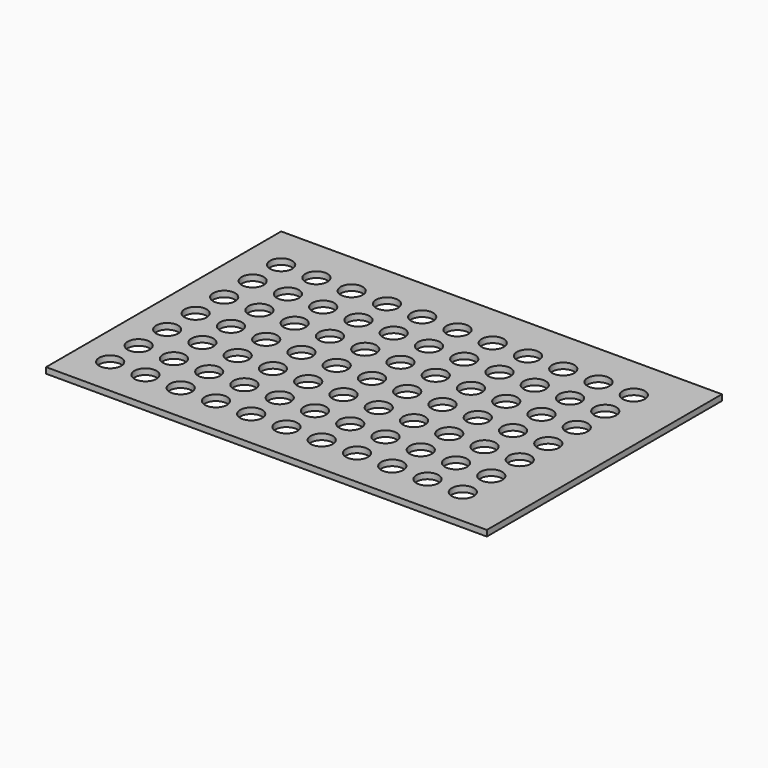
from build123d import *

# Parameters (mm, degrees)
F0_W     = 15
F0_H     = 10
F1_DEPTH = 0.2


with BuildPart() as f1:
    # F0 (on Top) → F1 (new body)
    with BuildSketch(Plane.XY):
        with Locations((7.5, -5)):
            Rectangle(F0_W, F0_H)
        with BuildLine():
            add(Edge.make_bspline(
                [(1.487611, -8.557549), (1.241304, -7.956544), (0.843971, -8.470355), (0.446639, -8.984167), (1.090279, -9.071361), (1.733919, -9.158555), (1.487611, -8.557549)],
                knots=[0, 0, 0, 2.094395, 2.094395, 4.18879, 4.18879, 6.283185, 6.283185, 6.283185], degree=2, weights=[1, 0.5, 1, 0.5, 1, 0.5, 1]))
        make_face(mode=Mode.SUBTRACT)
        with BuildLine():
            add(Edge.make_bspline(
                [(2.687611, -8.557549), (2.441304, -7.956544), (2.043971, -8.470355), (1.646639, -8.984167), (2.290279, -9.071361), (2.933919, -9.158555), (2.687611, -8.557549)],
                knots=[0, 0, 0, 2.094395, 2.094395, 4.18879, 4.18879, 6.283185, 6.283185, 6.283185], degree=2, weights=[1, 0.5, 1, 0.5, 1, 0.5, 1]))
        make_face(mode=Mode.SUBTRACT)
        with BuildLine():
            add(Edge.make_bspline(
                [(3.887611, -8.557549), (3.641304, -7.956544), (3.243971, -8.470355), (2.846639, -8.984167), (3.490279, -9.071361), (4.133919, -9.158555), (3.887611, -8.557549)],
                knots=[0, 0, 0, 2.094395, 2.094395, 4.18879, 4.18879, 6.283185, 6.283185, 6.283185], degree=2, weights=[1, 0.5, 1, 0.5, 1, 0.5, 1]))
        make_face(mode=Mode.SUBTRACT)
        with BuildLine():
            add(Edge.make_bspline(
                [(5.087611, -8.557549), (4.841304, -7.956544), (4.443971, -8.470355), (4.046639, -8.984167), (4.690279, -9.071361), (5.333919, -9.158555), (5.087611, -8.557549)],
                knots=[0, 0, 0, 2.094395, 2.094395, 4.18879, 4.18879, 6.283185, 6.283185, 6.283185], degree=2, weights=[1, 0.5, 1, 0.5, 1, 0.5, 1]))
        make_face(mode=Mode.SUBTRACT)
        with BuildLine():
            add(Edge.make_bspline(
                [(6.287611, -8.557549), (6.041304, -7.956544), (5.643971, -8.470355), (5.246639, -8.984167), (5.890279, -9.071361), (6.533919, -9.158555), (6.287611, -8.557549)],
                knots=[0, 0, 0, 2.094395, 2.094395, 4.18879, 4.18879, 6.283185, 6.283185, 6.283185], degree=2, weights=[1, 0.5, 1, 0.5, 1, 0.5, 1]))
        make_face(mode=Mode.SUBTRACT)
        with BuildLine():
            add(Edge.make_bspline(
                [(7.487611, -8.557549), (7.241304, -7.956544), (6.843971, -8.470355), (6.446639, -8.984167), (7.090279, -9.071361), (7.733919, -9.158555), (7.487611, -8.557549)],
                knots=[0, 0, 0, 2.094395, 2.094395, 4.18879, 4.18879, 6.283185, 6.283185, 6.283185], degree=2, weights=[1, 0.5, 1, 0.5, 1, 0.5, 1]))
        make_face(mode=Mode.SUBTRACT)
        with BuildLine():
            add(Edge.make_bspline(
                [(1.497508, -7.35759), (1.2512, -6.756585), (0.853868, -7.270396), (0.456536, -7.784207), (1.100176, -7.871402), (1.743815, -7.958596), (1.497508, -7.35759)],
                knots=[0, 0, 0, 2.094395, 2.094395, 4.18879, 4.18879, 6.283185, 6.283185, 6.283185], degree=2, weights=[1, 0.5, 1, 0.5, 1, 0.5, 1]))
        make_face(mode=Mode.SUBTRACT)
        with BuildLine():
            add(Edge.make_bspline(
                [(1.507404, -6.157631), (1.261097, -5.556626), (0.863765, -6.070437), (0.466432, -6.584248), (1.110072, -6.671442), (1.753712, -6.758636), (1.507404, -6.157631)],
                knots=[0, 0, 0, 2.094395, 2.094395, 4.18879, 4.18879, 6.283185, 6.283185, 6.283185], degree=2, weights=[1, 0.5, 1, 0.5, 1, 0.5, 1]))
        make_face(mode=Mode.SUBTRACT)
        with BuildLine():
            add(Edge.make_bspline(
                [(2.697508, -7.35759), (2.4512, -6.756585), (2.053868, -7.270396), (1.656536, -7.784207), (2.300176, -7.871402), (2.943815, -7.958596), (2.697508, -7.35759)],
                knots=[0, 0, 0, 2.094395, 2.094395, 4.18879, 4.18879, 6.283185, 6.283185, 6.283185], degree=2, weights=[1, 0.5, 1, 0.5, 1, 0.5, 1]))
        make_face(mode=Mode.SUBTRACT)
        with BuildLine():
            add(Edge.make_bspline(
                [(3.897508, -7.35759), (3.6512, -6.756585), (3.253868, -7.270396), (2.856536, -7.784207), (3.500176, -7.871402), (4.143815, -7.958596), (3.897508, -7.35759)],
                knots=[0, 0, 0, 2.094395, 2.094395, 4.18879, 4.18879, 6.283185, 6.283185, 6.283185], degree=2, weights=[1, 0.5, 1, 0.5, 1, 0.5, 1]))
        make_face(mode=Mode.SUBTRACT)
        with BuildLine():
            add(Edge.make_bspline(
                [(2.707404, -6.157631), (2.461097, -5.556626), (2.063765, -6.070437), (1.666432, -6.584248), (2.310072, -6.671442), (2.953712, -6.758636), (2.707404, -6.157631)],
                knots=[0, 0, 0, 2.094395, 2.094395, 4.18879, 4.18879, 6.283185, 6.283185, 6.283185], degree=2, weights=[1, 0.5, 1, 0.5, 1, 0.5, 1]))
        make_face(mode=Mode.SUBTRACT)
        with BuildLine():
            add(Edge.make_bspline(
                [(3.907404, -6.157631), (3.661097, -5.556626), (3.263765, -6.070437), (2.866432, -6.584248), (3.510072, -6.671442), (4.153712, -6.758636), (3.907404, -6.157631)],
                knots=[0, 0, 0, 2.094395, 2.094395, 4.18879, 4.18879, 6.283185, 6.283185, 6.283185], degree=2, weights=[1, 0.5, 1, 0.5, 1, 0.5, 1]))
        make_face(mode=Mode.SUBTRACT)
        with BuildLine():
            add(Edge.make_bspline(
                [(1.517301, -4.957672), (1.270993, -4.356666), (0.873661, -4.870478), (0.476329, -5.384289), (1.119969, -5.471483), (1.763609, -5.558677), (1.517301, -4.957672)],
                knots=[0, 0, 0, 2.094395, 2.094395, 4.18879, 4.18879, 6.283185, 6.283185, 6.283185], degree=2, weights=[1, 0.5, 1, 0.5, 1, 0.5, 1]))
        make_face(mode=Mode.SUBTRACT)
        with BuildLine():
            add(Edge.make_bspline(
                [(2.717301, -4.957672), (2.470993, -4.356666), (2.073661, -4.870478), (1.676329, -5.384289), (2.319969, -5.471483), (2.963609, -5.558677), (2.717301, -4.957672)],
                knots=[0, 0, 0, 2.094395, 2.094395, 4.18879, 4.18879, 6.283185, 6.283185, 6.283185], degree=2, weights=[1, 0.5, 1, 0.5, 1, 0.5, 1]))
        make_face(mode=Mode.SUBTRACT)
        with BuildLine():
            add(Edge.make_bspline(
                [(3.917301, -4.957672), (3.670993, -4.356666), (3.273661, -4.870478), (2.876329, -5.384289), (3.519969, -5.471483), (4.163609, -5.558677), (3.917301, -4.957672)],
                knots=[0, 0, 0, 2.094395, 2.094395, 4.18879, 4.18879, 6.283185, 6.283185, 6.283185], degree=2, weights=[1, 0.5, 1, 0.5, 1, 0.5, 1]))
        make_face(mode=Mode.SUBTRACT)
        with BuildLine():
            add(Edge.make_bspline(
                [(5.097508, -7.35759), (4.8512, -6.756585), (4.453868, -7.270396), (4.056536, -7.784207), (4.700176, -7.871402), (5.343815, -7.958596), (5.097508, -7.35759)],
                knots=[0, 0, 0, 2.094395, 2.094395, 4.18879, 4.18879, 6.283185, 6.283185, 6.283185], degree=2, weights=[1, 0.5, 1, 0.5, 1, 0.5, 1]))
        make_face(mode=Mode.SUBTRACT)
        with BuildLine():
            add(Edge.make_bspline(
                [(5.107404, -6.157631), (4.861097, -5.556626), (4.463765, -6.070437), (4.066432, -6.584248), (4.710072, -6.671442), (5.353712, -6.758636), (5.107404, -6.157631)],
                knots=[0, 0, 0, 2.094395, 2.094395, 4.18879, 4.18879, 6.283185, 6.283185, 6.283185], degree=2, weights=[1, 0.5, 1, 0.5, 1, 0.5, 1]))
        make_face(mode=Mode.SUBTRACT)
        with BuildLine():
            add(Edge.make_bspline(
                [(6.297508, -7.35759), (6.0512, -6.756585), (5.653868, -7.270396), (5.256536, -7.784207), (5.900176, -7.871402), (6.543815, -7.958596), (6.297508, -7.35759)],
                knots=[0, 0, 0, 2.094395, 2.094395, 4.18879, 4.18879, 6.283185, 6.283185, 6.283185], degree=2, weights=[1, 0.5, 1, 0.5, 1, 0.5, 1]))
        make_face(mode=Mode.SUBTRACT)
        with BuildLine():
            add(Edge.make_bspline(
                [(7.497508, -7.35759), (7.2512, -6.756585), (6.853868, -7.270396), (6.456536, -7.784207), (7.100176, -7.871402), (7.743815, -7.958596), (7.497508, -7.35759)],
                knots=[0, 0, 0, 2.094395, 2.094395, 4.18879, 4.18879, 6.283185, 6.283185, 6.283185], degree=2, weights=[1, 0.5, 1, 0.5, 1, 0.5, 1]))
        make_face(mode=Mode.SUBTRACT)
        with BuildLine():
            add(Edge.make_bspline(
                [(6.307404, -6.157631), (6.061097, -5.556626), (5.663765, -6.070437), (5.266432, -6.584248), (5.910072, -6.671442), (6.553712, -6.758636), (6.307404, -6.157631)],
                knots=[0, 0, 0, 2.094395, 2.094395, 4.18879, 4.18879, 6.283185, 6.283185, 6.283185], degree=2, weights=[1, 0.5, 1, 0.5, 1, 0.5, 1]))
        make_face(mode=Mode.SUBTRACT)
        with BuildLine():
            add(Edge.make_bspline(
                [(7.507404, -6.157631), (7.261097, -5.556626), (6.863765, -6.070437), (6.466432, -6.584248), (7.110072, -6.671442), (7.753712, -6.758636), (7.507404, -6.157631)],
                knots=[0, 0, 0, 2.094395, 2.094395, 4.18879, 4.18879, 6.283185, 6.283185, 6.283185], degree=2, weights=[1, 0.5, 1, 0.5, 1, 0.5, 1]))
        make_face(mode=Mode.SUBTRACT)
        with BuildLine():
            add(Edge.make_bspline(
                [(5.117301, -4.957672), (4.870993, -4.356666), (4.473661, -4.870478), (4.076329, -5.384289), (4.719969, -5.471483), (5.363609, -5.558677), (5.117301, -4.957672)],
                knots=[0, 0, 0, 2.094395, 2.094395, 4.18879, 4.18879, 6.283185, 6.283185, 6.283185], degree=2, weights=[1, 0.5, 1, 0.5, 1, 0.5, 1]))
        make_face(mode=Mode.SUBTRACT)
        with BuildLine():
            add(Edge.make_bspline(
                [(6.317301, -4.957672), (6.070993, -4.356666), (5.673661, -4.870478), (5.276329, -5.384289), (5.919969, -5.471483), (6.563609, -5.558677), (6.317301, -4.957672)],
                knots=[0, 0, 0, 2.094395, 2.094395, 4.18879, 4.18879, 6.283185, 6.283185, 6.283185], degree=2, weights=[1, 0.5, 1, 0.5, 1, 0.5, 1]))
        make_face(mode=Mode.SUBTRACT)
        with BuildLine():
            add(Edge.make_bspline(
                [(7.517301, -4.957672), (7.270993, -4.356666), (6.873661, -4.870478), (6.476329, -5.384289), (7.119969, -5.471483), (7.763609, -5.558677), (7.517301, -4.957672)],
                knots=[0, 0, 0, 2.094395, 2.094395, 4.18879, 4.18879, 6.283185, 6.283185, 6.283185], degree=2, weights=[1, 0.5, 1, 0.5, 1, 0.5, 1]))
        make_face(mode=Mode.SUBTRACT)
        with BuildLine():
            add(Edge.make_bspline(
                [(8.687611, -8.557549), (8.441304, -7.956544), (8.043971, -8.470355), (7.646639, -8.984167), (8.290279, -9.071361), (8.933919, -9.158555), (8.687611, -8.557549)],
                knots=[0, 0, 0, 2.094395, 2.094395, 4.18879, 4.18879, 6.283185, 6.283185, 6.283185], degree=2, weights=[1, 0.5, 1, 0.5, 1, 0.5, 1]))
        make_face(mode=Mode.SUBTRACT)
        with BuildLine():
            add(Edge.make_bspline(
                [(9.887611, -8.557549), (9.641304, -7.956544), (9.243971, -8.470355), (8.846639, -8.984167), (9.490279, -9.071361), (10.133919, -9.158555), (9.887611, -8.557549)],
                knots=[0, 0, 0, 2.094395, 2.094395, 4.18879, 4.18879, 6.283185, 6.283185, 6.283185], degree=2, weights=[1, 0.5, 1, 0.5, 1, 0.5, 1]))
        make_face(mode=Mode.SUBTRACT)
        with BuildLine():
            add(Edge.make_bspline(
                [(11.087611, -8.557549), (10.841304, -7.956544), (10.443971, -8.470355), (10.046639, -8.984167), (10.690279, -9.071361), (11.333919, -9.158555), (11.087611, -8.557549)],
                knots=[0, 0, 0, 2.094395, 2.094395, 4.18879, 4.18879, 6.283185, 6.283185, 6.283185], degree=2, weights=[1, 0.5, 1, 0.5, 1, 0.5, 1]))
        make_face(mode=Mode.SUBTRACT)
        with BuildLine():
            add(Edge.make_bspline(
                [(12.287611, -8.557549), (12.041304, -7.956544), (11.643971, -8.470355), (11.246639, -8.984167), (11.890279, -9.071361), (12.533919, -9.158555), (12.287611, -8.557549)],
                knots=[0, 0, 0, 2.094395, 2.094395, 4.18879, 4.18879, 6.283185, 6.283185, 6.283185], degree=2, weights=[1, 0.5, 1, 0.5, 1, 0.5, 1]))
        make_face(mode=Mode.SUBTRACT)
        with BuildLine():
            add(Edge.make_bspline(
                [(13.487611, -8.557549), (13.241304, -7.956544), (12.843971, -8.470355), (12.446639, -8.984167), (13.090279, -9.071361), (13.733919, -9.158555), (13.487611, -8.557549)],
                knots=[0, 0, 0, 2.094395, 2.094395, 4.18879, 4.18879, 6.283185, 6.283185, 6.283185], degree=2, weights=[1, 0.5, 1, 0.5, 1, 0.5, 1]))
        make_face(mode=Mode.SUBTRACT)
        with BuildLine():
            add(Edge.make_bspline(
                [(8.697508, -7.35759), (8.4512, -6.756585), (8.053868, -7.270396), (7.656536, -7.784207), (8.300176, -7.871402), (8.943815, -7.958596), (8.697508, -7.35759)],
                knots=[0, 0, 0, 2.094395, 2.094395, 4.18879, 4.18879, 6.283185, 6.283185, 6.283185], degree=2, weights=[1, 0.5, 1, 0.5, 1, 0.5, 1]))
        make_face(mode=Mode.SUBTRACT)
        with BuildLine():
            add(Edge.make_bspline(
                [(8.707404, -6.157631), (8.461097, -5.556626), (8.063765, -6.070437), (7.666432, -6.584248), (8.310072, -6.671442), (8.953712, -6.758636), (8.707404, -6.157631)],
                knots=[0, 0, 0, 2.094395, 2.094395, 4.18879, 4.18879, 6.283185, 6.283185, 6.283185], degree=2, weights=[1, 0.5, 1, 0.5, 1, 0.5, 1]))
        make_face(mode=Mode.SUBTRACT)
        with BuildLine():
            add(Edge.make_bspline(
                [(9.897508, -7.35759), (9.6512, -6.756585), (9.253868, -7.270396), (8.856536, -7.784207), (9.500176, -7.871402), (10.143815, -7.958596), (9.897508, -7.35759)],
                knots=[0, 0, 0, 2.094395, 2.094395, 4.18879, 4.18879, 6.283185, 6.283185, 6.283185], degree=2, weights=[1, 0.5, 1, 0.5, 1, 0.5, 1]))
        make_face(mode=Mode.SUBTRACT)
        with BuildLine():
            add(Edge.make_bspline(
                [(11.097508, -7.35759), (10.8512, -6.756585), (10.453868, -7.270396), (10.056536, -7.784207), (10.700176, -7.871402), (11.343815, -7.958596), (11.097508, -7.35759)],
                knots=[0, 0, 0, 2.094395, 2.094395, 4.18879, 4.18879, 6.283185, 6.283185, 6.283185], degree=2, weights=[1, 0.5, 1, 0.5, 1, 0.5, 1]))
        make_face(mode=Mode.SUBTRACT)
        with BuildLine():
            add(Edge.make_bspline(
                [(9.907404, -6.157631), (9.661097, -5.556626), (9.263765, -6.070437), (8.866432, -6.584248), (9.510072, -6.671442), (10.153712, -6.758636), (9.907404, -6.157631)],
                knots=[0, 0, 0, 2.094395, 2.094395, 4.18879, 4.18879, 6.283185, 6.283185, 6.283185], degree=2, weights=[1, 0.5, 1, 0.5, 1, 0.5, 1]))
        make_face(mode=Mode.SUBTRACT)
        with BuildLine():
            add(Edge.make_bspline(
                [(11.107404, -6.157631), (10.861097, -5.556626), (10.463765, -6.070437), (10.066432, -6.584248), (10.710072, -6.671442), (11.353712, -6.758636), (11.107404, -6.157631)],
                knots=[0, 0, 0, 2.094395, 2.094395, 4.18879, 4.18879, 6.283185, 6.283185, 6.283185], degree=2, weights=[1, 0.5, 1, 0.5, 1, 0.5, 1]))
        make_face(mode=Mode.SUBTRACT)
        with BuildLine():
            add(Edge.make_bspline(
                [(8.717301, -4.957672), (8.470993, -4.356666), (8.073661, -4.870478), (7.676329, -5.384289), (8.319969, -5.471483), (8.963609, -5.558677), (8.717301, -4.957672)],
                knots=[0, 0, 0, 2.094395, 2.094395, 4.18879, 4.18879, 6.283185, 6.283185, 6.283185], degree=2, weights=[1, 0.5, 1, 0.5, 1, 0.5, 1]))
        make_face(mode=Mode.SUBTRACT)
        with BuildLine():
            add(Edge.make_bspline(
                [(9.917301, -4.957672), (9.670993, -4.356666), (9.273661, -4.870478), (8.876329, -5.384289), (9.519969, -5.471483), (10.163609, -5.558677), (9.917301, -4.957672)],
                knots=[0, 0, 0, 2.094395, 2.094395, 4.18879, 4.18879, 6.283185, 6.283185, 6.283185], degree=2, weights=[1, 0.5, 1, 0.5, 1, 0.5, 1]))
        make_face(mode=Mode.SUBTRACT)
        with BuildLine():
            add(Edge.make_bspline(
                [(11.117301, -4.957672), (10.870993, -4.356666), (10.473661, -4.870478), (10.076329, -5.384289), (10.719969, -5.471483), (11.363609, -5.558677), (11.117301, -4.957672)],
                knots=[0, 0, 0, 2.094395, 2.094395, 4.18879, 4.18879, 6.283185, 6.283185, 6.283185], degree=2, weights=[1, 0.5, 1, 0.5, 1, 0.5, 1]))
        make_face(mode=Mode.SUBTRACT)
        with BuildLine():
            add(Edge.make_bspline(
                [(12.297508, -7.35759), (12.0512, -6.756585), (11.653868, -7.270396), (11.256536, -7.784207), (11.900176, -7.871402), (12.543815, -7.958596), (12.297508, -7.35759)],
                knots=[0, 0, 0, 2.094395, 2.094395, 4.18879, 4.18879, 6.283185, 6.283185, 6.283185], degree=2, weights=[1, 0.5, 1, 0.5, 1, 0.5, 1]))
        make_face(mode=Mode.SUBTRACT)
        with BuildLine():
            add(Edge.make_bspline(
                [(12.307404, -6.157631), (12.061097, -5.556626), (11.663765, -6.070437), (11.266432, -6.584248), (11.910072, -6.671442), (12.553712, -6.758636), (12.307404, -6.157631)],
                knots=[0, 0, 0, 2.094395, 2.094395, 4.18879, 4.18879, 6.283185, 6.283185, 6.283185], degree=2, weights=[1, 0.5, 1, 0.5, 1, 0.5, 1]))
        make_face(mode=Mode.SUBTRACT)
        with BuildLine():
            add(Edge.make_bspline(
                [(13.497508, -7.35759), (13.2512, -6.756585), (12.853868, -7.270396), (12.456536, -7.784207), (13.100176, -7.871402), (13.743815, -7.958596), (13.497508, -7.35759)],
                knots=[0, 0, 0, 2.094395, 2.094395, 4.18879, 4.18879, 6.283185, 6.283185, 6.283185], degree=2, weights=[1, 0.5, 1, 0.5, 1, 0.5, 1]))
        make_face(mode=Mode.SUBTRACT)
        with BuildLine():
            add(Edge.make_bspline(
                [(13.507404, -6.157631), (13.261097, -5.556626), (12.863765, -6.070437), (12.466432, -6.584248), (13.110072, -6.671442), (13.753712, -6.758636), (13.507404, -6.157631)],
                knots=[0, 0, 0, 2.094395, 2.094395, 4.18879, 4.18879, 6.283185, 6.283185, 6.283185], degree=2, weights=[1, 0.5, 1, 0.5, 1, 0.5, 1]))
        make_face(mode=Mode.SUBTRACT)
        with BuildLine():
            add(Edge.make_bspline(
                [(12.317301, -4.957672), (12.070993, -4.356666), (11.673661, -4.870478), (11.276329, -5.384289), (11.919969, -5.471483), (12.563609, -5.558677), (12.317301, -4.957672)],
                knots=[0, 0, 0, 2.094395, 2.094395, 4.18879, 4.18879, 6.283185, 6.283185, 6.283185], degree=2, weights=[1, 0.5, 1, 0.5, 1, 0.5, 1]))
        make_face(mode=Mode.SUBTRACT)
        with BuildLine():
            add(Edge.make_bspline(
                [(13.517301, -4.957672), (13.270993, -4.356666), (12.873661, -4.870478), (12.476329, -5.384289), (13.119969, -5.471483), (13.763609, -5.558677), (13.517301, -4.957672)],
                knots=[0, 0, 0, 2.094395, 2.094395, 4.18879, 4.18879, 6.283185, 6.283185, 6.283185], degree=2, weights=[1, 0.5, 1, 0.5, 1, 0.5, 1]))
        make_face(mode=Mode.SUBTRACT)
        with BuildLine():
            add(Edge.make_bspline(
                [(1.527198, -3.757713), (1.28089, -3.156707), (0.883558, -3.670519), (0.486226, -4.18433), (1.129865, -4.271524), (1.773505, -4.358718), (1.527198, -3.757713)],
                knots=[0, 0, 0, 2.094395, 2.094395, 4.18879, 4.18879, 6.283185, 6.283185, 6.283185], degree=2, weights=[1, 0.5, 1, 0.5, 1, 0.5, 1]))
        make_face(mode=Mode.SUBTRACT)
        with BuildLine():
            add(Edge.make_bspline(
                [(2.727198, -3.757713), (2.48089, -3.156707), (2.083558, -3.670519), (1.686226, -4.18433), (2.329865, -4.271524), (2.973505, -4.358718), (2.727198, -3.757713)],
                knots=[0, 0, 0, 2.094395, 2.094395, 4.18879, 4.18879, 6.283185, 6.283185, 6.283185], degree=2, weights=[1, 0.5, 1, 0.5, 1, 0.5, 1]))
        make_face(mode=Mode.SUBTRACT)
        with BuildLine():
            add(Edge.make_bspline(
                [(3.927198, -3.757713), (3.68089, -3.156707), (3.283558, -3.670519), (2.886226, -4.18433), (3.529865, -4.271524), (4.173505, -4.358718), (3.927198, -3.757713)],
                knots=[0, 0, 0, 2.094395, 2.094395, 4.18879, 4.18879, 6.283185, 6.283185, 6.283185], degree=2, weights=[1, 0.5, 1, 0.5, 1, 0.5, 1]))
        make_face(mode=Mode.SUBTRACT)
        with BuildLine():
            add(Edge.make_bspline(
                [(1.537094, -2.557753), (1.290786, -1.956748), (0.893454, -2.470559), (0.496122, -2.984371), (1.139762, -3.071565), (1.783402, -3.158759), (1.537094, -2.557753)],
                knots=[0, 0, 0, 2.094395, 2.094395, 4.18879, 4.18879, 6.283185, 6.283185, 6.283185], degree=2, weights=[1, 0.5, 1, 0.5, 1, 0.5, 1]))
        make_face(mode=Mode.SUBTRACT)
        with BuildLine():
            add(Edge.make_bspline(
                [(2.737094, -2.557753), (2.490786, -1.956748), (2.093454, -2.470559), (1.696122, -2.984371), (2.339762, -3.071565), (2.983402, -3.158759), (2.737094, -2.557753)],
                knots=[0, 0, 0, 2.094395, 2.094395, 4.18879, 4.18879, 6.283185, 6.283185, 6.283185], degree=2, weights=[1, 0.5, 1, 0.5, 1, 0.5, 1]))
        make_face(mode=Mode.SUBTRACT)
        with BuildLine():
            add(Edge.make_bspline(
                [(3.937094, -2.557753), (3.690786, -1.956748), (3.293454, -2.470559), (2.896122, -2.984371), (3.539762, -3.071565), (4.183402, -3.158759), (3.937094, -2.557753)],
                knots=[0, 0, 0, 2.094395, 2.094395, 4.18879, 4.18879, 6.283185, 6.283185, 6.283185], degree=2, weights=[1, 0.5, 1, 0.5, 1, 0.5, 1]))
        make_face(mode=Mode.SUBTRACT)
        with BuildLine():
            add(Edge.make_bspline(
                [(5.127198, -3.757713), (4.88089, -3.156707), (4.483558, -3.670519), (4.086226, -4.18433), (4.729865, -4.271524), (5.373505, -4.358718), (5.127198, -3.757713)],
                knots=[0, 0, 0, 2.094395, 2.094395, 4.18879, 4.18879, 6.283185, 6.283185, 6.283185], degree=2, weights=[1, 0.5, 1, 0.5, 1, 0.5, 1]))
        make_face(mode=Mode.SUBTRACT)
        with BuildLine():
            add(Edge.make_bspline(
                [(6.327198, -3.757713), (6.08089, -3.156707), (5.683558, -3.670519), (5.286226, -4.18433), (5.929865, -4.271524), (6.573505, -4.358718), (6.327198, -3.757713)],
                knots=[0, 0, 0, 2.094395, 2.094395, 4.18879, 4.18879, 6.283185, 6.283185, 6.283185], degree=2, weights=[1, 0.5, 1, 0.5, 1, 0.5, 1]))
        make_face(mode=Mode.SUBTRACT)
        with BuildLine():
            add(Edge.make_bspline(
                [(7.527198, -3.757713), (7.28089, -3.156707), (6.883558, -3.670519), (6.486226, -4.18433), (7.129865, -4.271524), (7.773505, -4.358718), (7.527198, -3.757713)],
                knots=[0, 0, 0, 2.094395, 2.094395, 4.18879, 4.18879, 6.283185, 6.283185, 6.283185], degree=2, weights=[1, 0.5, 1, 0.5, 1, 0.5, 1]))
        make_face(mode=Mode.SUBTRACT)
        with BuildLine():
            add(Edge.make_bspline(
                [(5.137094, -2.557753), (4.890786, -1.956748), (4.493454, -2.470559), (4.096122, -2.984371), (4.739762, -3.071565), (5.383402, -3.158759), (5.137094, -2.557753)],
                knots=[0, 0, 0, 2.094395, 2.094395, 4.18879, 4.18879, 6.283185, 6.283185, 6.283185], degree=2, weights=[1, 0.5, 1, 0.5, 1, 0.5, 1]))
        make_face(mode=Mode.SUBTRACT)
        with BuildLine():
            add(Edge.make_bspline(
                [(6.337094, -2.557753), (6.090786, -1.956748), (5.693454, -2.470559), (5.296122, -2.984371), (5.939762, -3.071565), (6.583402, -3.158759), (6.337094, -2.557753)],
                knots=[0, 0, 0, 2.094395, 2.094395, 4.18879, 4.18879, 6.283185, 6.283185, 6.283185], degree=2, weights=[1, 0.5, 1, 0.5, 1, 0.5, 1]))
        make_face(mode=Mode.SUBTRACT)
        with BuildLine():
            add(Edge.make_bspline(
                [(7.537094, -2.557753), (7.290786, -1.956748), (6.893454, -2.470559), (6.496122, -2.984371), (7.139762, -3.071565), (7.783402, -3.158759), (7.537094, -2.557753)],
                knots=[0, 0, 0, 2.094395, 2.094395, 4.18879, 4.18879, 6.283185, 6.283185, 6.283185], degree=2, weights=[1, 0.5, 1, 0.5, 1, 0.5, 1]))
        make_face(mode=Mode.SUBTRACT)
        with BuildLine():
            add(Edge.make_bspline(
                [(1.546991, -1.357794), (1.300683, -0.756789), (0.903351, -1.2706), (0.506019, -1.784412), (1.149658, -1.871606), (1.793298, -1.9588), (1.546991, -1.357794)],
                knots=[0, 0, 0, 2.094395, 2.094395, 4.18879, 4.18879, 6.283185, 6.283185, 6.283185], degree=2, weights=[1, 0.5, 1, 0.5, 1, 0.5, 1]))
        make_face(mode=Mode.SUBTRACT)
        with BuildLine():
            add(Edge.make_bspline(
                [(2.746991, -1.357794), (2.500683, -0.756789), (2.103351, -1.2706), (1.706019, -1.784412), (2.349658, -1.871606), (2.993298, -1.9588), (2.746991, -1.357794)],
                knots=[0, 0, 0, 2.094395, 2.094395, 4.18879, 4.18879, 6.283185, 6.283185, 6.283185], degree=2, weights=[1, 0.5, 1, 0.5, 1, 0.5, 1]))
        make_face(mode=Mode.SUBTRACT)
        with BuildLine():
            add(Edge.make_bspline(
                [(3.946991, -1.357794), (3.700683, -0.756789), (3.303351, -1.2706), (2.906019, -1.784412), (3.549658, -1.871606), (4.193298, -1.9588), (3.946991, -1.357794)],
                knots=[0, 0, 0, 2.094395, 2.094395, 4.18879, 4.18879, 6.283185, 6.283185, 6.283185], degree=2, weights=[1, 0.5, 1, 0.5, 1, 0.5, 1]))
        make_face(mode=Mode.SUBTRACT)
        with BuildLine():
            add(Edge.make_bspline(
                [(5.146991, -1.357794), (4.900683, -0.756789), (4.503351, -1.2706), (4.106019, -1.784412), (4.749658, -1.871606), (5.393298, -1.9588), (5.146991, -1.357794)],
                knots=[0, 0, 0, 2.094395, 2.094395, 4.18879, 4.18879, 6.283185, 6.283185, 6.283185], degree=2, weights=[1, 0.5, 1, 0.5, 1, 0.5, 1]))
        make_face(mode=Mode.SUBTRACT)
        with BuildLine():
            add(Edge.make_bspline(
                [(6.346991, -1.357794), (6.100683, -0.756789), (5.703351, -1.2706), (5.306019, -1.784412), (5.949658, -1.871606), (6.593298, -1.9588), (6.346991, -1.357794)],
                knots=[0, 0, 0, 2.094395, 2.094395, 4.18879, 4.18879, 6.283185, 6.283185, 6.283185], degree=2, weights=[1, 0.5, 1, 0.5, 1, 0.5, 1]))
        make_face(mode=Mode.SUBTRACT)
        with BuildLine():
            add(Edge.make_bspline(
                [(7.546991, -1.357794), (7.300683, -0.756789), (6.903351, -1.2706), (6.506019, -1.784412), (7.149658, -1.871606), (7.793298, -1.9588), (7.546991, -1.357794)],
                knots=[0, 0, 0, 2.094395, 2.094395, 4.18879, 4.18879, 6.283185, 6.283185, 6.283185], degree=2, weights=[1, 0.5, 1, 0.5, 1, 0.5, 1]))
        make_face(mode=Mode.SUBTRACT)
        with BuildLine():
            add(Edge.make_bspline(
                [(8.727198, -3.757713), (8.48089, -3.156707), (8.083558, -3.670519), (7.686226, -4.18433), (8.329865, -4.271524), (8.973505, -4.358718), (8.727198, -3.757713)],
                knots=[0, 0, 0, 2.094395, 2.094395, 4.18879, 4.18879, 6.283185, 6.283185, 6.283185], degree=2, weights=[1, 0.5, 1, 0.5, 1, 0.5, 1]))
        make_face(mode=Mode.SUBTRACT)
        with BuildLine():
            add(Edge.make_bspline(
                [(9.927198, -3.757713), (9.68089, -3.156707), (9.283558, -3.670519), (8.886226, -4.18433), (9.529865, -4.271524), (10.173505, -4.358718), (9.927198, -3.757713)],
                knots=[0, 0, 0, 2.094395, 2.094395, 4.18879, 4.18879, 6.283185, 6.283185, 6.283185], degree=2, weights=[1, 0.5, 1, 0.5, 1, 0.5, 1]))
        make_face(mode=Mode.SUBTRACT)
        with BuildLine():
            add(Edge.make_bspline(
                [(11.127198, -3.757713), (10.88089, -3.156707), (10.483558, -3.670519), (10.086226, -4.18433), (10.729865, -4.271524), (11.373505, -4.358718), (11.127198, -3.757713)],
                knots=[0, 0, 0, 2.094395, 2.094395, 4.18879, 4.18879, 6.283185, 6.283185, 6.283185], degree=2, weights=[1, 0.5, 1, 0.5, 1, 0.5, 1]))
        make_face(mode=Mode.SUBTRACT)
        with BuildLine():
            add(Edge.make_bspline(
                [(8.737094, -2.557753), (8.490786, -1.956748), (8.093454, -2.470559), (7.696122, -2.984371), (8.339762, -3.071565), (8.983402, -3.158759), (8.737094, -2.557753)],
                knots=[0, 0, 0, 2.094395, 2.094395, 4.18879, 4.18879, 6.283185, 6.283185, 6.283185], degree=2, weights=[1, 0.5, 1, 0.5, 1, 0.5, 1]))
        make_face(mode=Mode.SUBTRACT)
        with BuildLine():
            add(Edge.make_bspline(
                [(9.937094, -2.557753), (9.690786, -1.956748), (9.293454, -2.470559), (8.896122, -2.984371), (9.539762, -3.071565), (10.183402, -3.158759), (9.937094, -2.557753)],
                knots=[0, 0, 0, 2.094395, 2.094395, 4.18879, 4.18879, 6.283185, 6.283185, 6.283185], degree=2, weights=[1, 0.5, 1, 0.5, 1, 0.5, 1]))
        make_face(mode=Mode.SUBTRACT)
        with BuildLine():
            add(Edge.make_bspline(
                [(11.137094, -2.557753), (10.890786, -1.956748), (10.493454, -2.470559), (10.096122, -2.984371), (10.739762, -3.071565), (11.383402, -3.158759), (11.137094, -2.557753)],
                knots=[0, 0, 0, 2.094395, 2.094395, 4.18879, 4.18879, 6.283185, 6.283185, 6.283185], degree=2, weights=[1, 0.5, 1, 0.5, 1, 0.5, 1]))
        make_face(mode=Mode.SUBTRACT)
        with BuildLine():
            add(Edge.make_bspline(
                [(12.327198, -3.757713), (12.08089, -3.156707), (11.683558, -3.670519), (11.286226, -4.18433), (11.929865, -4.271524), (12.573505, -4.358718), (12.327198, -3.757713)],
                knots=[0, 0, 0, 2.094395, 2.094395, 4.18879, 4.18879, 6.283185, 6.283185, 6.283185], degree=2, weights=[1, 0.5, 1, 0.5, 1, 0.5, 1]))
        make_face(mode=Mode.SUBTRACT)
        with BuildLine():
            add(Edge.make_bspline(
                [(13.527198, -3.757713), (13.28089, -3.156707), (12.883558, -3.670519), (12.486226, -4.18433), (13.129865, -4.271524), (13.773505, -4.358718), (13.527198, -3.757713)],
                knots=[0, 0, 0, 2.094395, 2.094395, 4.18879, 4.18879, 6.283185, 6.283185, 6.283185], degree=2, weights=[1, 0.5, 1, 0.5, 1, 0.5, 1]))
        make_face(mode=Mode.SUBTRACT)
        with BuildLine():
            add(Edge.make_bspline(
                [(12.337094, -2.557753), (12.090786, -1.956748), (11.693454, -2.470559), (11.296122, -2.984371), (11.939762, -3.071565), (12.583402, -3.158759), (12.337094, -2.557753)],
                knots=[0, 0, 0, 2.094395, 2.094395, 4.18879, 4.18879, 6.283185, 6.283185, 6.283185], degree=2, weights=[1, 0.5, 1, 0.5, 1, 0.5, 1]))
        make_face(mode=Mode.SUBTRACT)
        with BuildLine():
            add(Edge.make_bspline(
                [(13.537094, -2.557753), (13.290786, -1.956748), (12.893454, -2.470559), (12.496122, -2.984371), (13.139762, -3.071565), (13.783402, -3.158759), (13.537094, -2.557753)],
                knots=[0, 0, 0, 2.094395, 2.094395, 4.18879, 4.18879, 6.283185, 6.283185, 6.283185], degree=2, weights=[1, 0.5, 1, 0.5, 1, 0.5, 1]))
        make_face(mode=Mode.SUBTRACT)
        with BuildLine():
            add(Edge.make_bspline(
                [(8.746991, -1.357794), (8.500683, -0.756789), (8.103351, -1.2706), (7.706019, -1.784412), (8.349658, -1.871606), (8.993298, -1.9588), (8.746991, -1.357794)],
                knots=[0, 0, 0, 2.094395, 2.094395, 4.18879, 4.18879, 6.283185, 6.283185, 6.283185], degree=2, weights=[1, 0.5, 1, 0.5, 1, 0.5, 1]))
        make_face(mode=Mode.SUBTRACT)
        with BuildLine():
            add(Edge.make_bspline(
                [(9.946991, -1.357794), (9.700683, -0.756789), (9.303351, -1.2706), (8.906019, -1.784412), (9.549658, -1.871606), (10.193298, -1.9588), (9.946991, -1.357794)],
                knots=[0, 0, 0, 2.094395, 2.094395, 4.18879, 4.18879, 6.283185, 6.283185, 6.283185], degree=2, weights=[1, 0.5, 1, 0.5, 1, 0.5, 1]))
        make_face(mode=Mode.SUBTRACT)
        with BuildLine():
            add(Edge.make_bspline(
                [(11.146991, -1.357794), (10.900683, -0.756789), (10.503351, -1.2706), (10.106019, -1.784412), (10.749658, -1.871606), (11.393298, -1.9588), (11.146991, -1.357794)],
                knots=[0, 0, 0, 2.094395, 2.094395, 4.18879, 4.18879, 6.283185, 6.283185, 6.283185], degree=2, weights=[1, 0.5, 1, 0.5, 1, 0.5, 1]))
        make_face(mode=Mode.SUBTRACT)
        with BuildLine():
            add(Edge.make_bspline(
                [(12.346991, -1.357794), (12.100683, -0.756789), (11.703351, -1.2706), (11.306019, -1.784412), (11.949658, -1.871606), (12.593298, -1.9588), (12.346991, -1.357794)],
                knots=[0, 0, 0, 2.094395, 2.094395, 4.18879, 4.18879, 6.283185, 6.283185, 6.283185], degree=2, weights=[1, 0.5, 1, 0.5, 1, 0.5, 1]))
        make_face(mode=Mode.SUBTRACT)
        with BuildLine():
            add(Edge.make_bspline(
                [(13.546991, -1.357794), (13.300683, -0.756789), (12.903351, -1.2706), (12.506019, -1.784412), (13.149658, -1.871606), (13.793298, -1.9588), (13.546991, -1.357794)],
                knots=[0, 0, 0, 2.094395, 2.094395, 4.18879, 4.18879, 6.283185, 6.283185, 6.283185], degree=2, weights=[1, 0.5, 1, 0.5, 1, 0.5, 1]))
        make_face(mode=Mode.SUBTRACT)
    extrude(amount=F1_DEPTH)


solid = f1.part
